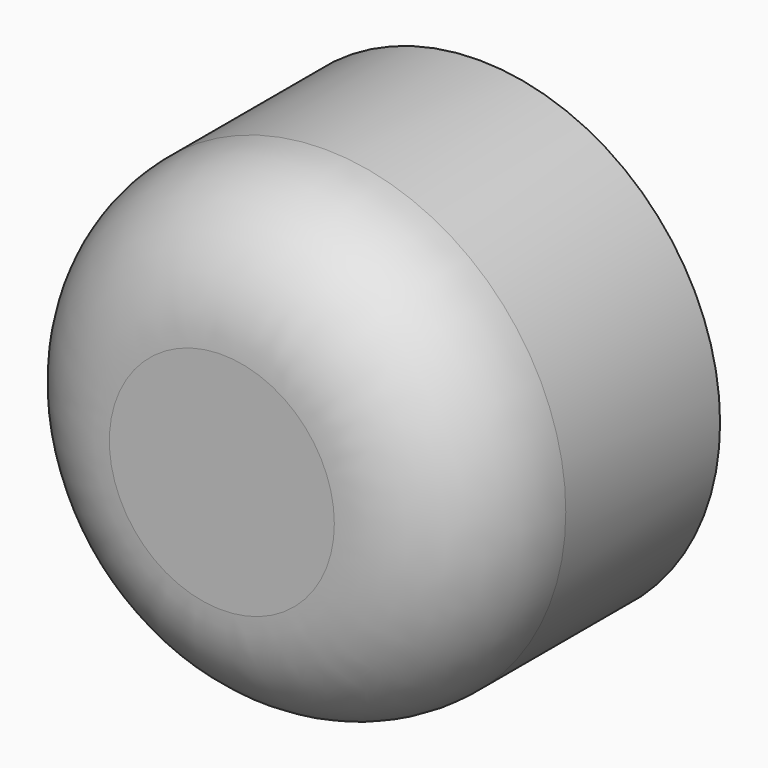
from build123d import *

# Parameters (mm, degrees)
F0_R     = 9.525
F0_R_2   = 6.096
F1_DEPTH = 12.7
F2_R     = 5.08
F3_D     = 12.192
F3_DEPTH = 8.382
F3_TIP   = 3.6628463336


with BuildPart() as f1:
    # F0 (on Front) → F1 (new body)
    with BuildSketch(Plane.XZ):
        Circle(F0_R)
        Circle(F0_R_2, mode=Mode.SUBTRACT)
        Circle(F0_R_2)
    extrude(amount=F1_DEPTH)

    # F2
    f2_edges = [f1.edges().sort_by_distance(p)[0] for p in [
        (-9.525, -12.7, 0),
    ]]
    fillet(f2_edges, radius=F2_R)

    # F3
    with Locations(Plane(origin=(0, 0, 0), x_dir=(1, 0, 0), z_dir=(0, 1, 0))):
        with Locations((0, 0)):
            Hole(F3_D / 2, depth=F3_DEPTH)
            with Locations((0, 0, -(F3_DEPTH + F3_TIP / 2))):  # 118° drill point
                Cone(0, F3_D / 2, F3_TIP, mode=Mode.SUBTRACT)


solid = f1.part
